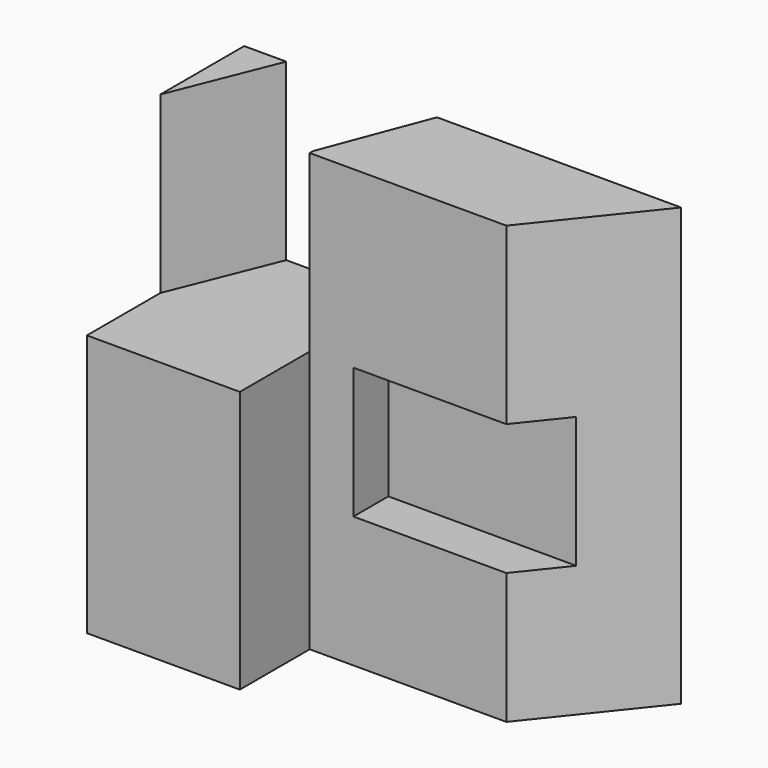
from build123d import *

# Parameters (mm, degrees)
F0_W     = 65
F0_H     = 25
F1_DEPTH = 100
F4_DEPTH = 40
F5_DEPTH = 85
F6_W     = 10
F6_H     = 30
F7_DEPTH = 55
F9_DEPTH = 100.001


with BuildPart() as f1:
    # F0 (on Top) → F1 (new body)
    with BuildSketch(Plane.XY):
        Polygon((0, 45), (0, 0), (35, 0), (35, 20), (35, 45), align=None)
        with Locations((67.5, 32.5)):
            Rectangle(F0_W, F0_H)
    extrude(amount=F1_DEPTH)

    # F2 (on face) → F4 (cut, through all)
    with BuildSketch(Plane.XY.offset(100)):
        Polygon((35, 0), (35, 20), (35, 21), (35, 45), (9.6249980852, 45), (0, 21), (0, 0), align=None)
    extrude(amount=-F4_DEPTH, mode=Mode.SUBTRACT)

    # F2 (on face) → F5 (cut)
    with BuildSketch(Plane.XY.offset(100)):
        Polygon((35, 45), (35, 21), (44.124994427, 45), align=None)
    extrude(amount=-F5_DEPTH, mode=Mode.SUBTRACT)

    # F6 (on face) → F7 (cut)
    with BuildSketch(Plane.YZ.offset(100)):
        with Locations((25, 45)):
            Rectangle(F6_W, F6_H)
    extrude(amount=-F7_DEPTH, mode=Mode.SUBTRACT)

    # F8 (on face) → F9 (cut, through all)
    with BuildSketch(Plane.XY.offset(100)):
        Polygon((100, 20), (100, 45), (80, 20), align=None)
    extrude(amount=-F9_DEPTH, mode=Mode.SUBTRACT)


solid = f1.part
